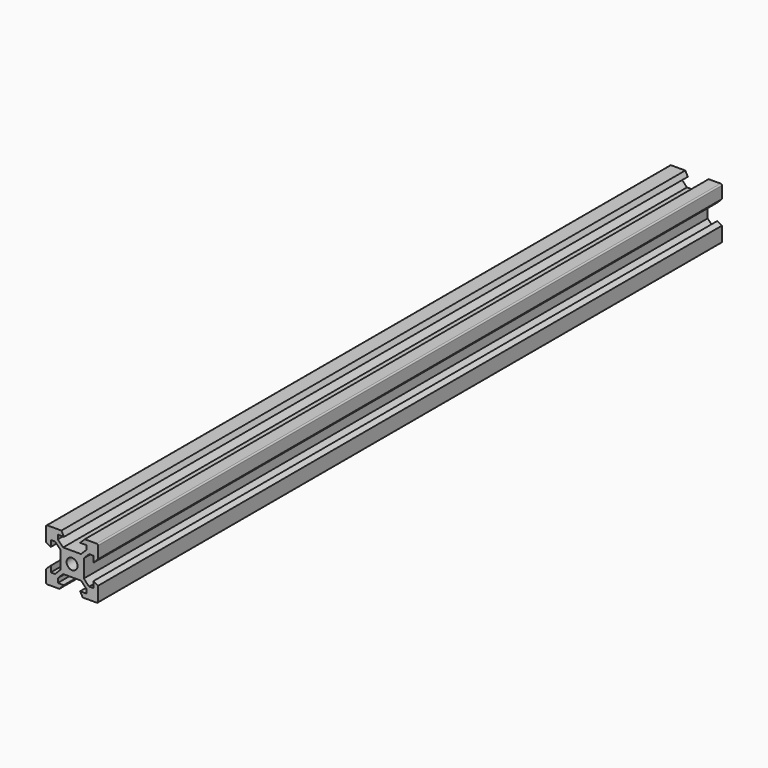
from build123d import *

# Parameters (mm, degrees)
SKETCH_R  = 2.1
PAD_DEPTH = 300


with BuildPart() as part:
    # Sketch → Pad (new body)
    with BuildSketch(Plane.XZ):
        with BuildLine():
            Line((-8.2, 5.5), (-8.2, 3.1))
            Line((-10, 4.1), (-8.2, 3.1))
            Line((-10, 4.1), (-10, 9.5))
            ThreePointArc((-9.5, 10), (-9.853553, 9.853553), (-10, 9.5))
            Line((-9.5, 10), (-4.1, 10))
            Line((-4.1, 10), (-3.1, 8.2))
            Line((-3.1, 8.2), (-5.5, 8.2))
            Line((-5.5, 8.2), (-5.5, 6.56066))
            Line((-3.43934, 4.5), (-5.5, 6.56066))
            Line((3.43934, 4.5), (-3.43934, 4.5))
            Line((5.5, 6.56066), (3.43934, 4.5))
            Line((5.5, 8.2), (5.5, 6.56066))
            Line((3.1, 8.2), (5.5, 8.2))
            Line((3.1, 8.2), (4.9, 10))
            Line((4.9, 10), (9.5, 10))
            ThreePointArc((10, 9.5), (9.853553, 9.853553), (9.5, 10))
            Line((10, 9.5), (10, 4.9))
            Line((10, 4.9), (8.2, 3.1))
            Line((8.2, 3.1), (8.2, 5.5))
            Line((8.2, 5.5), (6.56066, 5.5))
            Line((6.56066, 5.5), (4.5, 3.43934))
            Line((4.5, 3.43934), (4.5, -3.43934))
            Line((4.5, -3.43934), (6.56066, -5.5))
            Line((6.56066, -5.5), (8.2, -5.5))
            Line((8.2, -5.5), (8.2, -3.1))
            Line((8.2, -3.1), (10, -4.1))
            Line((10, -4.1), (10, -9.5))
            ThreePointArc((9.5, -10), (9.853553, -9.853553), (10, -9.5))
            Line((4.1, -10), (9.5, -10))
            Line((4.1, -10), (3.1, -8.2))
            Line((3.1, -8.2), (5.5, -8.2))
            Line((5.5, -8.2), (5.5, -6.56066))
            Line((5.5, -6.56066), (3.43934, -4.5))
            Line((-3.43934, -4.5), (3.43934, -4.5))
            Line((-5.5, -6.56066), (-3.43934, -4.5))
            Line((-5.5, -6.56066), (-5.5, -8.2))
            Line((-5.5, -8.2), (-3.2, -8.2))
            Line((-3.2, -8.2), (-4.9, -10))
            Line((-4.9, -10), (-9.5, -10))
            ThreePointArc((-10, -9.5), (-9.853553, -9.853553), (-9.5, -10))
            Line((-10, -9.5), (-10, -4.9))
            Line((-10, -4.9), (-8.2, -3.2))
            Line((-8.2, -3.2), (-8.2, -5.5))
            Line((-8.2, -5.5), (-6.56066, -5.5))
            Line((-6.56066, -5.5), (-4.5, -3.43934))
            Line((-4.5, -3.43934), (-4.5, 3.43934))
            Line((-6.56066, 5.5), (-4.5, 3.43934))
            Line((-8.2, 5.5), (-6.56066, 5.5))
        make_face()
        Circle(SKETCH_R, mode=Mode.SUBTRACT)
    extrude(amount=PAD_DEPTH)


solid = part.part
